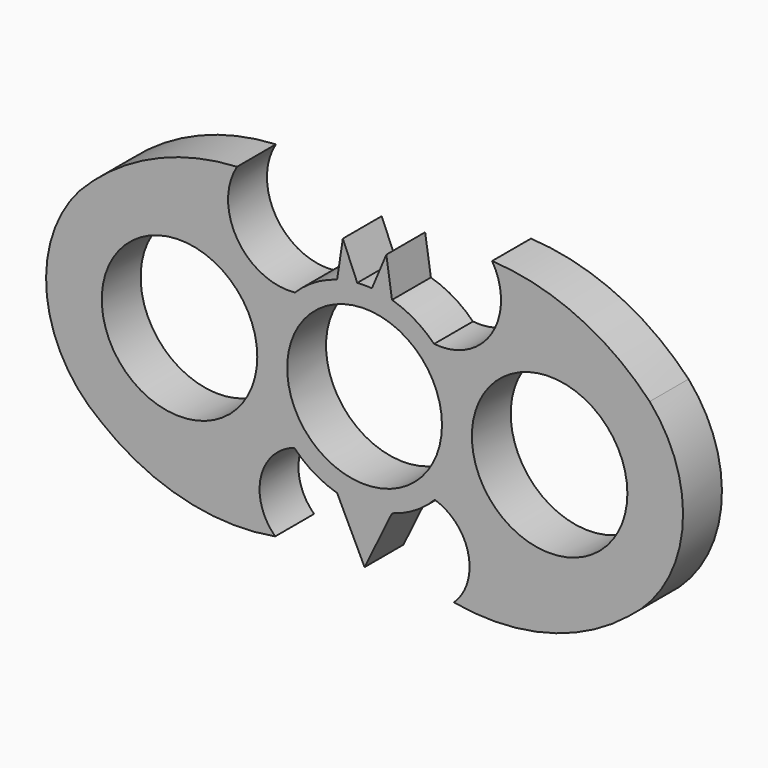
from build123d import *

# Parameters (mm, degrees)
F0_R     = 11.0998
F0_R_2   = 11.049
F1_DEPTH = 6.9342


with BuildPart() as f1:
    # F0 (on Front) → F1 (new body)
    with BuildSketch(Plane.XZ):
        with BuildLine():
            Line((17.42156, -43.349583), (21.33895, -35.304503))
            ThreePointArc((21.33895, -35.304503), (17.42156, -35.864994), (13.504169, -35.304503))
            Line((13.504169, -35.304503), (17.42156, -43.349583))
        make_face()
        with BuildLine():
            ThreePointArc((18.464495, -7.963978), (19.915392, -8.149387), (21.33895, -8.485484))
            Line((21.33895, -8.485484), (20.524143, -3.063567))
            Line((20.524143, -3.063567), (18.464495, -7.963978))
        make_face()
        with BuildLine():
            ThreePointArc((13.504169, -8.485484), (14.927727, -8.149387), (16.378624, -7.963978))
            Line((16.378624, -7.963978), (14.318976, -3.063567))
            Line((14.318976, -3.063567), (13.504169, -8.485484))
        make_face()
        with BuildLine():
            ThreePointArc((27.348009, -12.065116), (30.341184, -16.580466), (31.39156, -21.894994))
            ThreePointArc((31.39156, -21.894994), (30.369956, -27.139033), (27.45456, -31.616095))
            ThreePointArc((27.45456, -31.616095), (32.23448, -36.848985), (30.179416, -43.631868))
            ThreePointArc((30.179416, -43.631868), (43.335364, -43.168844), (55.098858, -37.260073))
            ThreePointArc((55.098858, -37.260073), (62.777034, -23.944093), (58.124559, -9.294035))
            ThreePointArc((58.124559, -9.294035), (47.870513, -1.960479), (35.628662, 1.050097))
            ThreePointArc((35.628662, 1.050097), (35.569066, -8.083991), (27.348009, -12.065116))
        make_face()
        with Locations((43.83756, -21.894994)):
            Circle(F0_R, mode=Mode.SUBTRACT)
        with BuildLine():
            ThreePointArc((27.45456, -31.616095), (30.369956, -27.139033), (31.39156, -21.894994))
            ThreePointArc((31.39156, -21.894994), (30.341184, -16.580466), (27.348009, -12.065116))
            ThreePointArc((27.348009, -12.065116), (24.571134, -9.89314), (21.33895, -8.485484))
            ThreePointArc((21.33895, -8.485484), (19.915392, -8.149387), (18.464495, -7.963978))
            ThreePointArc((18.464495, -7.963978), (17.42156, -7.924994), (16.378624, -7.963978))
            ThreePointArc((16.378624, -7.963978), (14.927727, -8.149387), (13.504169, -8.485484))
            ThreePointArc((13.504169, -8.485484), (10.271985, -9.89314), (7.49511, -12.065116))
            ThreePointArc((7.49511, -12.065116), (3.451767, -21.81886), (7.38856, -31.616095))
            ThreePointArc((7.38856, -31.616095), (10.206684, -33.857705), (13.504169, -35.304503))
            ThreePointArc((13.504169, -35.304503), (17.42156, -35.864994), (21.33895, -35.304503))
            ThreePointArc((21.33895, -35.304503), (24.636436, -33.857705), (27.45456, -31.616095))
        make_face()
        with Locations((17.42156, -21.894994)):
            Circle(F0_R_2, mode=Mode.SUBTRACT)
        with BuildLine():
            ThreePointArc((4.663704, -43.631868), (2.608639, -36.848985), (7.38856, -31.616095))
            ThreePointArc((7.38856, -31.616095), (3.451767, -21.81886), (7.49511, -12.065116))
            ThreePointArc((7.49511, -12.065116), (-0.725946, -8.083991), (-0.785542, 1.050097))
            ThreePointArc((-0.785542, 1.050097), (-13.027394, -1.960479), (-23.28144, -9.294035))
            ThreePointArc((-23.28144, -9.294035), (-27.933915, -23.944093), (-20.255738, -37.260073))
            ThreePointArc((-20.255738, -37.260073), (-8.492244, -43.168844), (4.663704, -43.631868))
        make_face()
        with Locations((-8.99444, -21.894994)):
            Circle(F0_R, mode=Mode.SUBTRACT)
    extrude(amount=F1_DEPTH)


solid = f1.part
